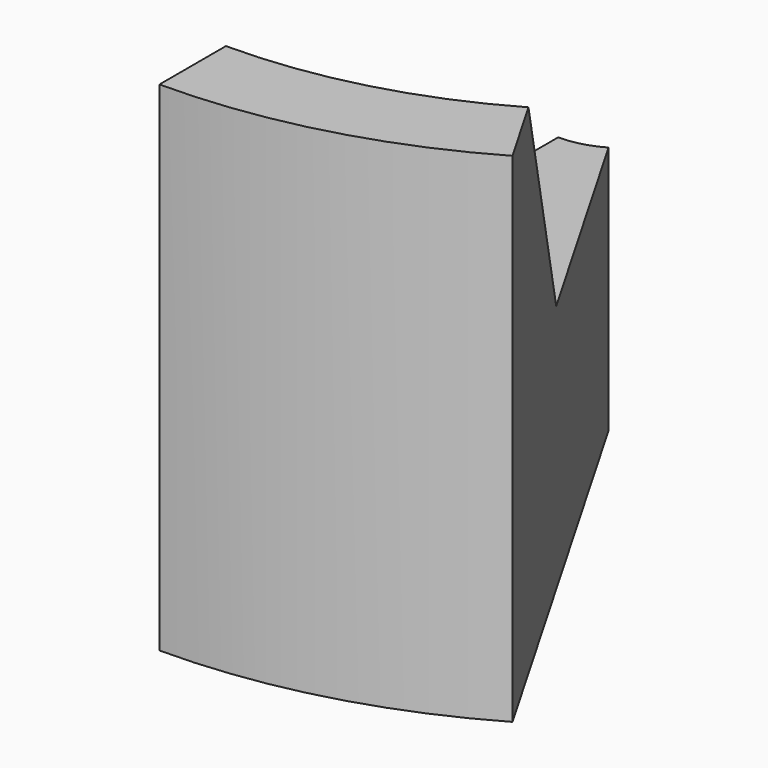
from build123d import *

# Parameters (mm, degrees)
F1_ANGLE = 30


with BuildPart() as f1:
    # F0 (on Right) → F1 (revolve)
    with BuildSketch(Plane.YZ):
        Polygon((-88.9, 0), (-12.7, 0), (-12.7, 38.1), (-54.202955, 38.1), (-76.2, 76.2), (-88.9, 76.2), align=None)
    revolve(axis=Axis((0, 0, 21.067582), (0, 0, 1)), revolution_arc=F1_ANGLE)


solid = f1.part
